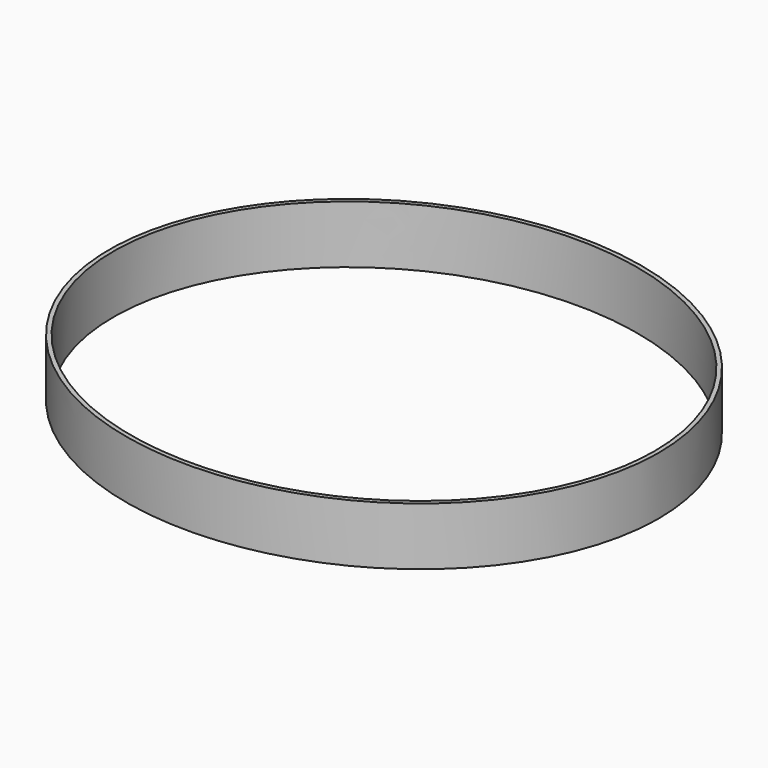
from build123d import *

# Parameters (mm, degrees)
F1_DEPTH = 20


with BuildPart() as f1:
    # F0 (on Top) → F1 (new body)
    with BuildSketch(Plane.XY):
        with BuildLine():
            add(Edge.make_bspline(
                [(95, 0), (95, 147.224319), (-47.5, 73.612159), (-190, 0), (-47.5, -73.612159), (95, -147.224319), (95, 0)],
                knots=[0, 0, 0, 2.094395, 2.094395, 4.18879, 4.18879, 6.283185, 6.283185, 6.283185], degree=2, weights=[1, 0.5, 1, 0.5, 1, 0.5, 1]))
        make_face()
        with BuildLine():
            add(Edge.make_bspline(
                [(93.5, 0), (93.5, 144.626242), (-46.75, 72.313121), (-187, 0), (-46.75, -72.313121), (93.5, -144.626242), (93.5, 0)],
                knots=[0, 0, 0, 2.094395, 2.094395, 4.18879, 4.18879, 6.283185, 6.283185, 6.283185], degree=2, weights=[1, 0.5, 1, 0.5, 1, 0.5, 1]))
        make_face(mode=Mode.SUBTRACT)
    extrude(amount=F1_DEPTH)


solid = f1.part
